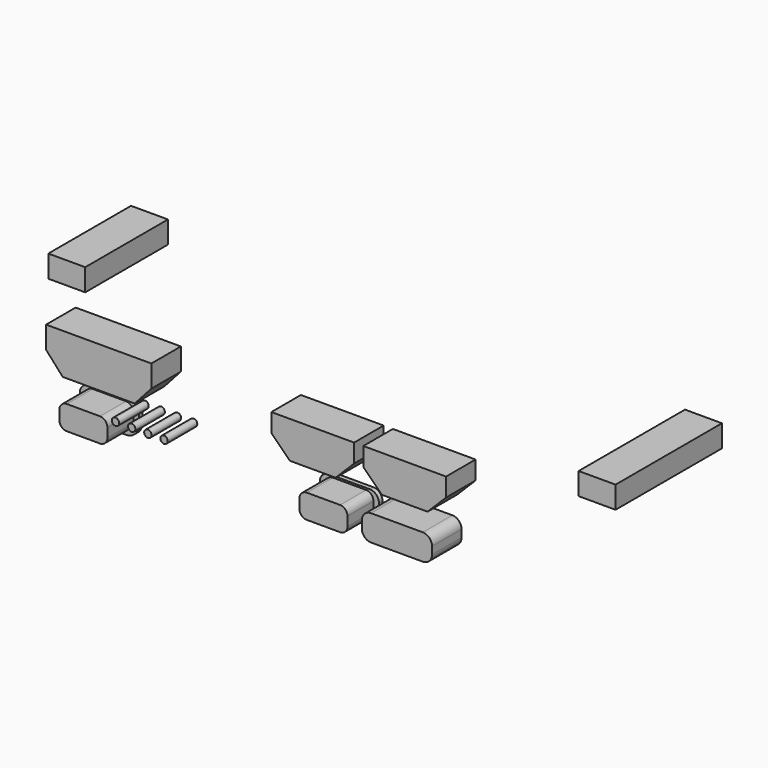
from build123d import *

# Parameters (mm, degrees)
EXTRUDE205_DEPTH = 0.6
EXTRUDE207_DEPTH = 0.6
SKETCH204_R      = 0.5
EXTRUDE203_DEPTH = 5
SKETCH207_W      = 18
SKETCH207_H      = 3
EXTRUDE206_DEPTH = 5
SKETCH205_W      = 14
SKETCH205_H      = 3
EXTRUDE204_DEPTH = 5


with BuildPart() as buttoncuts014:
    # Sketch208 → Extrude205 (new body)
    with BuildSketch(Plane.XZ):
        with BuildLine():
            ThreePointArc((11.8, 16.7), (10.916117, 16.333883), (10.55, 15.45))
            Line((10.55, 14.2), (10.55, 15.45))
            ThreePointArc((10.55, 14.2), (11.062563, 12.962563), (12.3, 12.45))
            Line((16.8, 12.45), (12.3, 12.45))
            ThreePointArc((16.8, 12.45), (18.037437, 12.962563), (18.55, 14.2))
            Line((18.55, 15.45), (18.55, 14.2))
            ThreePointArc((18.55, 15.45), (18.183883, 16.333883), (17.3, 16.7))
            Line((11.8, 16.7), (17.3, 16.7))
        make_face()
    extrude(amount=EXTRUDE205_DEPTH)


with BuildPart() as buttoncuts014_1:
    # Extrude205 placement: moved
    add(buttoncuts014.part.moved(Location((0, 2, 0))))


with BuildPart() as bottombuttoncuts009:
    # Sketch206 → Extrude207 (new body)
    with BuildSketch(Plane.XZ):
        with BuildLine():
            ThreePointArc((11.8, 16.7), (10.916117, 16.333883), (10.55, 15.45))
            Line((10.55, 14.2), (10.55, 15.45))
            ThreePointArc((10.55, 14.2), (11.062563, 12.962563), (12.3, 12.45))
            Line((16.8, 12.45), (12.3, 12.45))
            ThreePointArc((16.8, 12.45), (18.037437, 12.962563), (18.55, 14.2))
            Line((18.55, 15.45), (18.55, 14.2))
            ThreePointArc((18.55, 15.45), (18.183883, 16.333883), (17.3, 16.7))
            Line((11.8, 16.7), (17.3, 16.7))
        make_face()
    extrude(amount=EXTRUDE207_DEPTH)


with BuildPart() as bottombuttoncuts009_1:
    # Extrude207 placement: moved
    add(bottombuttoncuts009.part.moved(Location((32.5, 2, 0))))

    # Fusion199: union buttonCuts014
    add(buttoncuts014_1.part)


with BuildPart() as obj1:
    # Sketch204 → Extrude203 (new body)
    with BuildSketch(Plane.XZ):
        with Locations((18.9, 16.475)):
            Circle(SKETCH204_R)
        with Locations((21.09, 16.475)):
            Circle(SKETCH204_R)
        with Locations((23.28, 16.475)):
            Circle(SKETCH204_R)
        with Locations((25.47, 16.475)):
            Circle(SKETCH204_R)
        Polygon((11.75, 19.5), (21.5, 19.5), (23.75, 22), (23.75, 25), (9.5, 25), (9.5, 22), align=None)
        Polygon((40, 24.5), (40, 22), (42.5, 19.5), (48.7, 19.5), (51.2, 22), (51.2, 24.5), align=None)
        Polygon((52.45, 24.5), (52.45, 22), (54.95, 19.5), (61.15, 19.5), (63.65, 22), (63.65, 24.5), align=None)
        with BuildLine():
            ThreePointArc((12.3, 16.45), (11.592893, 16.157107), (11.3, 15.45))
            Line((11.3, 15.45), (11.3, 14.2))
            ThreePointArc((11.3, 14.2), (11.592893, 13.492893), (12.3, 13.2))
            Line((12.3, 13.2), (16.8, 13.2))
            ThreePointArc((16.8, 13.2), (17.507107, 13.492893), (17.8, 14.2))
            Line((17.8, 15.45), (17.8, 14.2))
            ThreePointArc((17.8, 15.45), (17.507107, 16.157107), (16.8, 16.45))
            Line((12.3, 16.45), (16.8, 16.45))
        make_face()
        with BuildLine():
            Line((44.8, 16.45), (49.3, 16.45))
            ThreePointArc((50.3, 15.45), (50.007107, 16.157107), (49.3, 16.45))
            Line((50.3, 15.45), (50.3, 14.2))
            ThreePointArc((49.3, 13.2), (50.007107, 13.492893), (50.3, 14.2))
            Line((49.3, 13.2), (44.8, 13.2))
            ThreePointArc((43.8, 14.2), (44.092893, 13.492893), (44.8, 13.2))
            Line((43.8, 15.45), (43.8, 14.2))
            ThreePointArc((44.8, 16.45), (44.092893, 16.157107), (43.8, 15.45))
        make_face()
        with BuildLine():
            Line((52.25, 15.58), (52.25, 14.58))
            ThreePointArc((52.25, 14.58), (52.616117, 13.696117), (53.5, 13.33))
            Line((53.5, 13.33), (60.500008, 13.33))
            ThreePointArc((60.500008, 13.33), (61.383886, 13.696119), (61.75, 14.58))
            Line((61.75, 15.58), (61.75, 14.58))
            ThreePointArc((61.75, 15.58), (61.383883, 16.463884), (60.5, 16.83))
            Line((53.5, 16.83), (60.5, 16.83))
            ThreePointArc((53.5, 16.83), (52.616117, 16.463883), (52.25, 15.58))
        make_face()
    extrude(amount=EXTRUDE203_DEPTH)


with BuildPart() as obj1_1:
    # Extrude203 placement: moved
    add(obj1.part.moved(Location((0, 2, 0))))


with BuildPart() as obj2:
    # Sketch207 → Extrude206 (new body)
    with BuildSketch(Plane.YZ):
        with Locations((17, 21.5)):
            Rectangle(SKETCH207_W, SKETCH207_H)
    extrude(amount=EXTRUDE206_DEPTH)


with BuildPart() as obj2_1:
    # Extrude206 placement: moved
    add(obj2.part.moved(Location((72, 1, 0))))


with BuildPart() as bottomcuts007:
    # Sketch205 (on Extrude) → Extrude204 (new body)
    with BuildSketch(Plane(origin=(72, 1, 0), x_dir=(0, 1, 0), z_dir=(1, 0, 0))):
        with Locations((19, 21.4)):
            Rectangle(SKETCH205_W, SKETCH205_H)
    extrude(amount=-EXTRUDE204_DEPTH)


with BuildPart() as bottomcuts007_1:
    # Extrude204 placement: moved
    add(bottomcuts007.part.moved(Location((-70, 0, 0))))

    # Fusion201: union obj2
    add(obj2_1.part)

    # Fusion200: union bottomButtonCuts009, obj1
    add(bottombuttoncuts009_1.part)
    add(obj1_1.part)


solid = bottomcuts007_1.part
